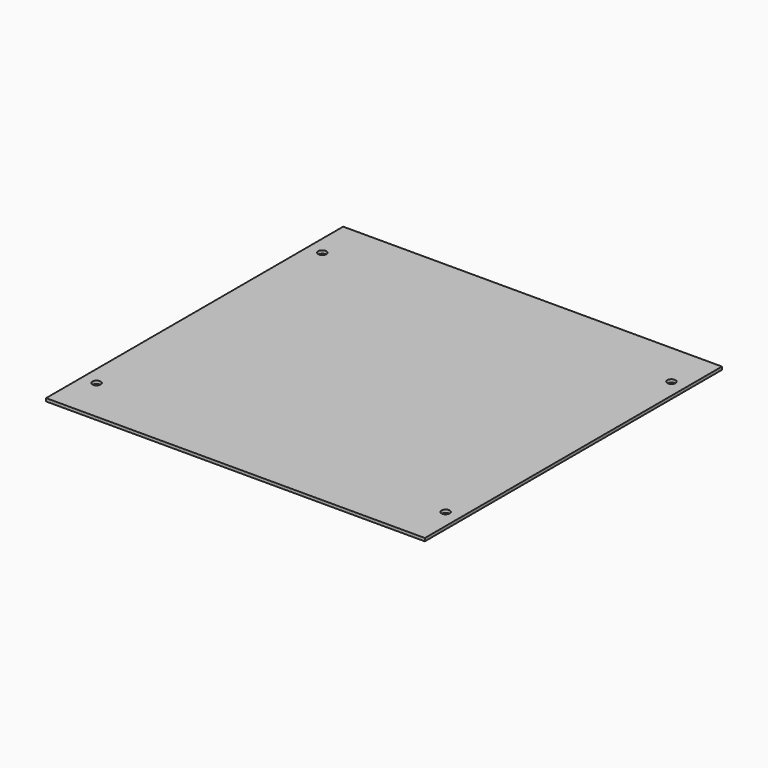
from build123d import *

# Parameters (mm, degrees)
CYLINDER007_R     = 2.75
CYLINDER007_DEPTH = 10
CYLINDER006_R     = 2.75
CYLINDER006_DEPTH = 10
CYLINDER005_R     = 2.75
CYLINDER005_DEPTH = 10
CYLINDER004_R     = 2.75
CYLINDER004_DEPTH = 10
BOX001_W          = 255
BOX001_H          = 250
BOX001_DEPTH      = 2


with BuildPart() as cylinder007:
    # Cylinder007 → Cylinder007 (new body)
    with BuildSketch(Plane(origin=(245, 220, -5), x_dir=(1, 0, 0), z_dir=(0, 0, 1))):
        Circle(CYLINDER007_R)
    extrude(amount=CYLINDER007_DEPTH)


with BuildPart() as cylinder006:
    # Cylinder006 → Cylinder006 (new body)
    with BuildSketch(Plane(origin=(245, 30, -5), x_dir=(1, 0, 0), z_dir=(0, 0, 1))):
        Circle(CYLINDER006_R)
    extrude(amount=CYLINDER006_DEPTH)


with BuildPart() as cylinder005:
    # Cylinder005 → Cylinder005 (new body)
    with BuildSketch(Plane(origin=(10, 220, -5), x_dir=(1, 0, 0), z_dir=(0, 0, 1))):
        Circle(CYLINDER005_R)
    extrude(amount=CYLINDER005_DEPTH)


with BuildPart() as cylinder004:
    # Cylinder004 → Cylinder004 (new body)
    with BuildSketch(Plane(origin=(10, 30, -5), x_dir=(1, 0, 0), z_dir=(0, 0, 1))):
        Circle(CYLINDER004_R)
    extrude(amount=CYLINDER004_DEPTH)


with BuildPart() as back:
    # Box001 → Box001 (new body)
    with BuildSketch(Plane.XY.offset(0)):
        with Locations((127.5, 125)):
            Rectangle(BOX001_W, BOX001_H)
    extrude(amount=BOX001_DEPTH)

    # Cut004: cut Cylinder004
    add(cylinder004.part, mode=Mode.SUBTRACT)

    # Cut005: cut Cylinder005
    add(cylinder005.part, mode=Mode.SUBTRACT)

    # Cut006: cut Cylinder006
    add(cylinder006.part, mode=Mode.SUBTRACT)

    # Cut007: cut Cylinder007
    add(cylinder007.part, mode=Mode.SUBTRACT)


solid = back.part
